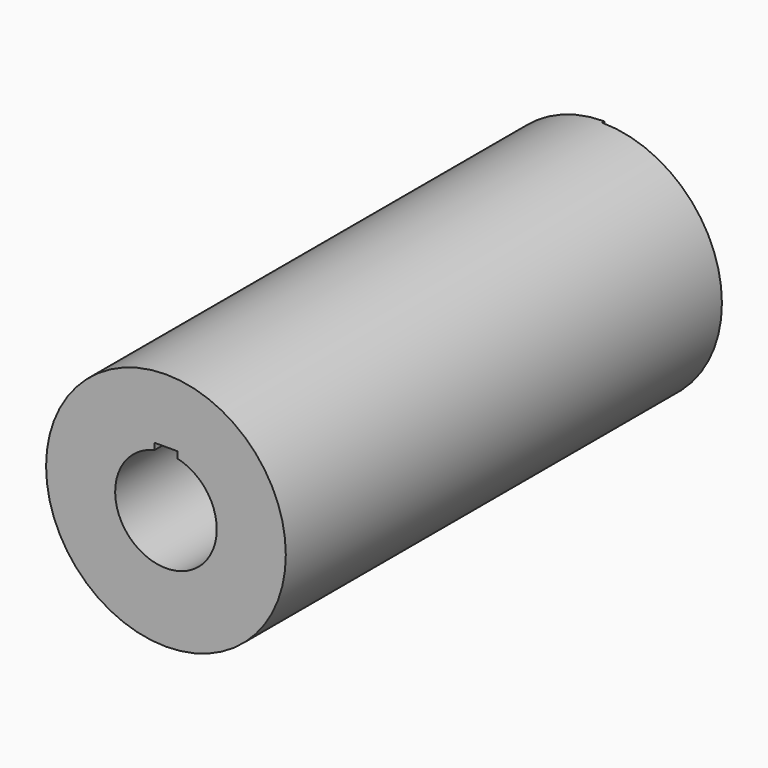
from build123d import *

# Parameters (mm, degrees)
F1_R     = 210
F1_R_2   = 89
F2_DEPTH = 960
F3_W     = 40
F3_H     = 35.969428
F4_DEPTH = 1035
F6_DEPTH = 5


with BuildPart() as f2:
    # F1 (on face) → F2 (new body)
    with BuildSketch(Plane.XZ):
        Circle(F1_R)
        Circle(F1_R_2, mode=Mode.SUBTRACT)
    extrude(amount=F2_DEPTH)

    # F3 (on face) → F4 (cut)
    with BuildSketch(Plane.XZ.offset(960)):
        with Locations((0, 80.015286)):
            Rectangle(F3_W, F3_H)
    extrude(amount=-F4_DEPTH, mode=Mode.SUBTRACT)

    # F5 (on face) → F6 (cut)
    with BuildSketch(Plane.XZ):
        Polygon((0, 269.126058), (0, 0), (0, -241.775826), (255.997956, -190.357447), (264.750004, 22.974176), (219.895661, 219.895661), (88.614672, 269.126058), align=None)
    extrude(amount=F6_DEPTH, mode=Mode.SUBTRACT)


solid = f2.part
